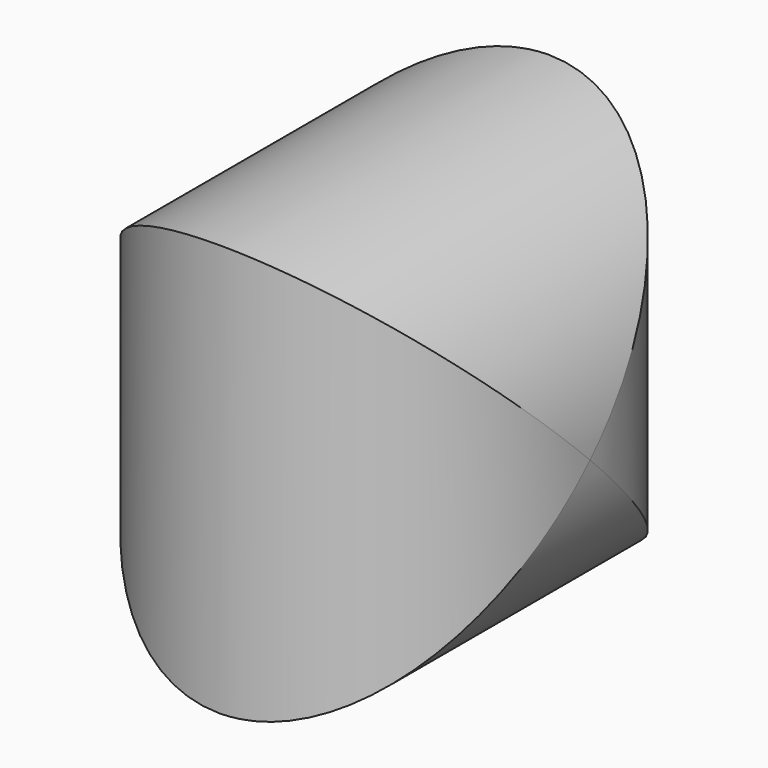
from build123d import *

# Parameters (mm, degrees)
F0_R     = 50
F1_DEPTH = 100
F2_W     = 179.588049
F2_H     = 151.703003
F2_R     = 50
F3_DEPTH = 50


with BuildPart() as f1:
    # F0 (on Top) → F1 (new body)
    with BuildSketch(Plane.XY):
        Circle(F0_R)
    extrude(amount=F1_DEPTH)

    # F2 (on Front) → F3 (cut, symmetric)
    with BuildSketch(Plane.XZ):
        with Locations((6.555065, 47.46036)):
            Rectangle(F2_W, F2_H)
        with Locations((0, 50)):
            Circle(F2_R, mode=Mode.SUBTRACT)
    extrude(amount=F3_DEPTH, both=True, mode=Mode.SUBTRACT)


solid = f1.part
